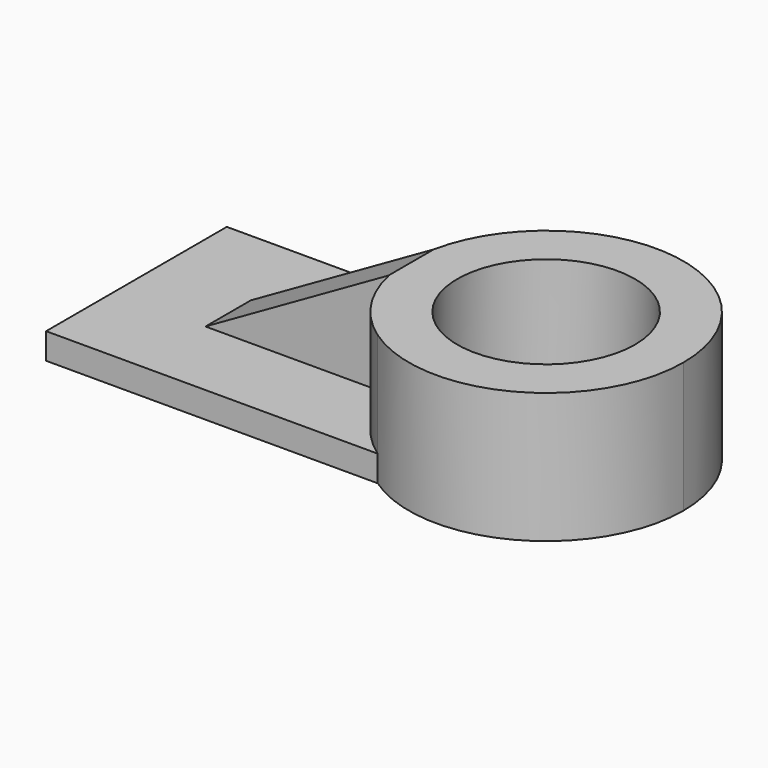
from build123d import *

# Parameters (mm, degrees)
F0_R     = 43.266566
F1_DEPTH = 12.7
F2_DEPTH = 63.5
F4_DEPTH = 50.8
F6_DEPTH = 80.962192


with BuildPart() as f1:
    # F0 (on Top) → F1 (new body)
    with BuildSketch(Plane.XY):
        with BuildLine():
            ThreePointArc((47.97375, -54.980806), (117.011051, -59.185378), (152.800973, 0))
            ThreePointArc((152.800973, 0), (117.011051, 59.185378), (47.97375, 54.980806))
            ThreePointArc((47.97375, 54.980806), (19.13688, 0), (47.97375, -54.980806))
        make_face()
        with Locations((85.968927, 0)):
            Circle(F0_R, mode=Mode.SUBTRACT)
        with BuildLine():
            ThreePointArc((47.97375, -54.980806), (19.13688, 0), (47.97375, 54.980806))
            Line((47.97375, 54.980806), (-113.462299, 54.980806))
            Line((-113.462299, 54.980806), (-113.462299, -54.980806))
            Line((-113.462299, -54.980806), (47.97375, -54.980806))
        make_face()
    extrude(amount=F1_DEPTH)

    # F0 (on Top) → F2 (join)
    with BuildSketch(Plane.XY):
        with BuildLine():
            ThreePointArc((47.97375, -54.980806), (117.011051, -59.185378), (152.800973, 0))
            ThreePointArc((152.800973, 0), (117.011051, 59.185378), (47.97375, 54.980806))
            ThreePointArc((47.97375, 54.980806), (19.13688, 0), (47.97375, -54.980806))
        make_face()
        with Locations((85.968927, 0)):
            Circle(F0_R, mode=Mode.SUBTRACT)
    extrude(amount=F2_DEPTH)

    # F3 (on face) → F4 (join)
    with BuildSketch(Plane.XY.offset(12.7)):
        with BuildLine():
            ThreePointArc((20.507041, -13.463432), (19.13688, 0), (20.507041, 13.463432))
            Line((20.507041, 13.463432), (-68.548821, 13.463432))
            Line((-68.548821, 13.463432), (-68.548821, -14.129145))
            Line((-68.548821, -14.129145), (20.507041, -14.129145))
            Line((20.507041, -14.129145), (20.507041, -13.463432))
        make_face()
    extrude(amount=F4_DEPTH)

    # F5 (on face) → F6 (cut, through all)
    with BuildSketch(Plane.XZ.offset(14.129145)):
        Polygon((-68.548821, 12.7), (20.507041, 63.5), (-68.548821, 63.5), align=None)
    extrude(amount=-F6_DEPTH, mode=Mode.SUBTRACT)


solid = f1.part
